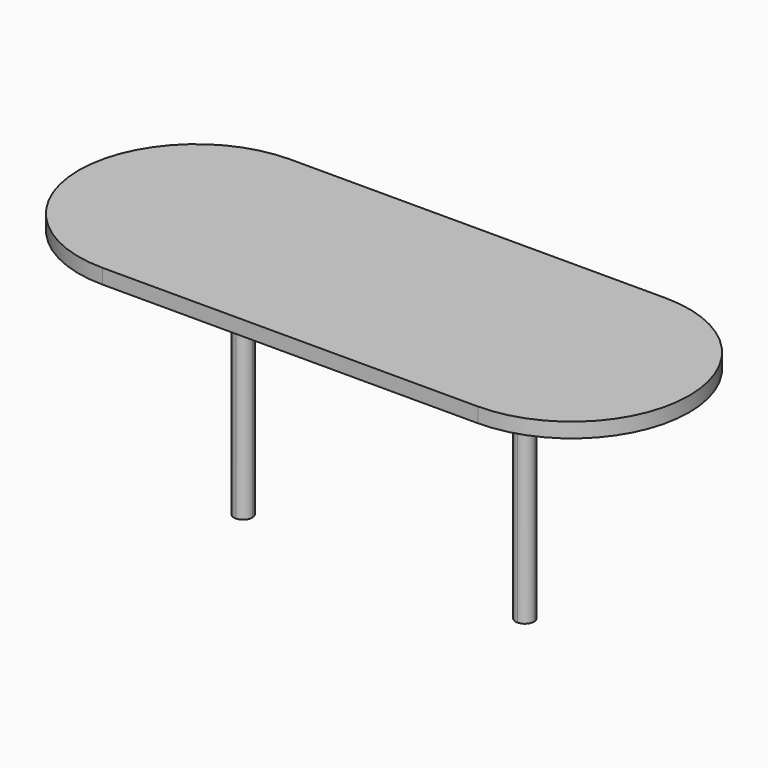
from build123d import *

# Parameters (mm, degrees)
F0_W     = 600
F0_H     = 500
F1_DEPTH = 31.473145
F3_DEPTH = 500


with BuildPart() as f1:
    # F0 (on Top) → F1 (new body)
    with BuildSketch(Plane.XY):
        with BuildLine():
            Line((-300, -250), (-300, 250))
            Line((-300, 250), (-400, 250))
            ThreePointArc((-400, 250), (-650, 0), (-400, -250))
            Line((-400, -250), (-300, -250))
        make_face()
        Rectangle(F0_W, F0_H)
        with BuildLine():
            Line((400, 250), (300, 250))
            Line((300, 250), (300, -250))
            Line((300, -250), (400, -250))
            ThreePointArc((400, -250), (650, 0), (400, 250))
        make_face()
    extrude(amount=F1_DEPTH)

    # F2 (on Top) → F3 (join)
    with BuildSketch(Plane.XY):
        with BuildLine():
            ThreePointArc((-280.5, 0), (-286.211418, 13.788582), (-300, 19.5))
            Line((-300, 19.5), (-300, -19.5))
            ThreePointArc((-300, -19.5), (-286.211418, -13.788582), (-280.5, 0))
        make_face()
        with BuildLine():
            Line((-300, -19.5), (-300, 19.5))
            ThreePointArc((-300, 19.5), (-319.5, 0), (-300, -19.5))
        make_face()
        with BuildLine():
            ThreePointArc((319.5, 0), (313.788582, 13.788582), (300, 19.5))
            Line((300, 19.5), (300, -19.5))
            ThreePointArc((300, -19.5), (313.788582, -13.788582), (319.5, 0))
        make_face()
        with BuildLine():
            Line((300, -19.5), (300, 19.5))
            ThreePointArc((300, 19.5), (280.5, 0), (300, -19.5))
        make_face()
    extrude(amount=-F3_DEPTH)


solid = f1.part
